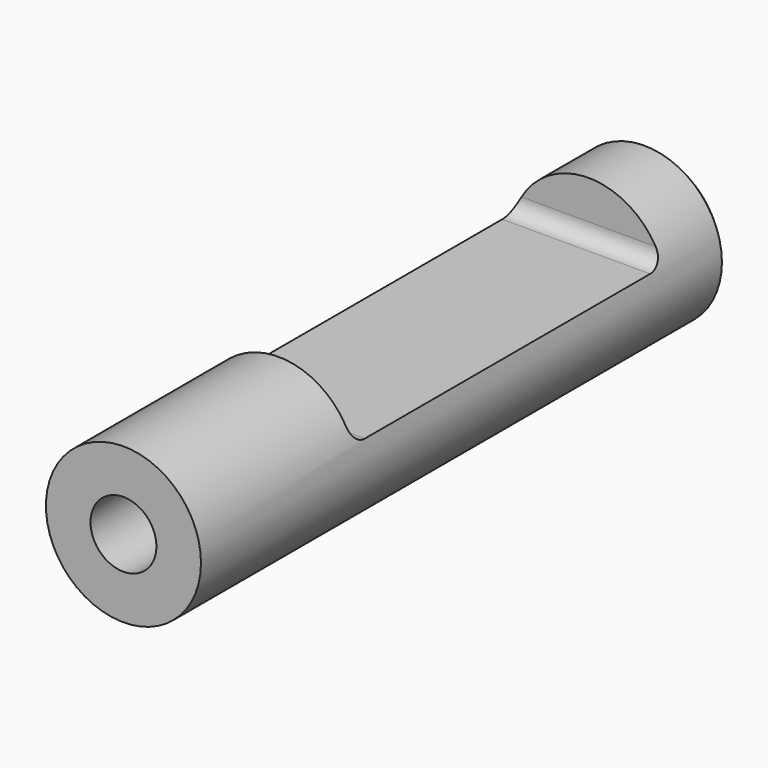
from build123d import *

# Parameters (mm, degrees)
F0_R          = 10
F1_DEPTH      = 42.5
F3_D          = 8.5
F3_DEPTH      = 20
F3_TIP        = 2.5536576309
F4_SIZE       = 1
F5_W          = 50
F5_H          = 7
F6_DEPTH      = 10.001
F6_DEPTH_BACK = 10.001
F7_R          = 2


with BuildPart() as f1:
    # F0 (on Front) → F1 (new body, symmetric)
    with BuildSketch(Plane.XZ):
        Circle(F0_R)
    extrude(amount=F1_DEPTH, both=True)

    # F3
    with Locations(Plane.XZ.offset(42.5)):
        with Locations((0, 0)):
            Hole(F3_D / 2, depth=F3_DEPTH)
            with Locations((0, 0, -(F3_DEPTH + F3_TIP / 2))):  # 118° drill point
                Cone(0, F3_D / 2, F3_TIP, mode=Mode.SUBTRACT)

    # F4
    f4_edges = [f1.edges().sort_by_distance(p)[0] for p in [
        (-10, 42.5, 0),
    ]]
    chamfer(f4_edges, length=F4_SIZE)

    # F5 (on Right) → F6 (cut, two sides)
    with BuildSketch(Plane.YZ) as f6_sk:
        with Locations((7.5, 6.5)):
            Rectangle(F5_W, F5_H)
    extrude(amount=-F6_DEPTH, mode=Mode.SUBTRACT)
    extrude(f6_sk.sketch, amount=F6_DEPTH_BACK, mode=Mode.SUBTRACT)

    # F7
    f7_edges = [f1.edges().sort_by_distance(p)[0] for p in [
        (0, -17.5, 3),
        (0, 32.5, 3),
    ]]
    fillet(f7_edges, radius=F7_R)


solid = f1.part
